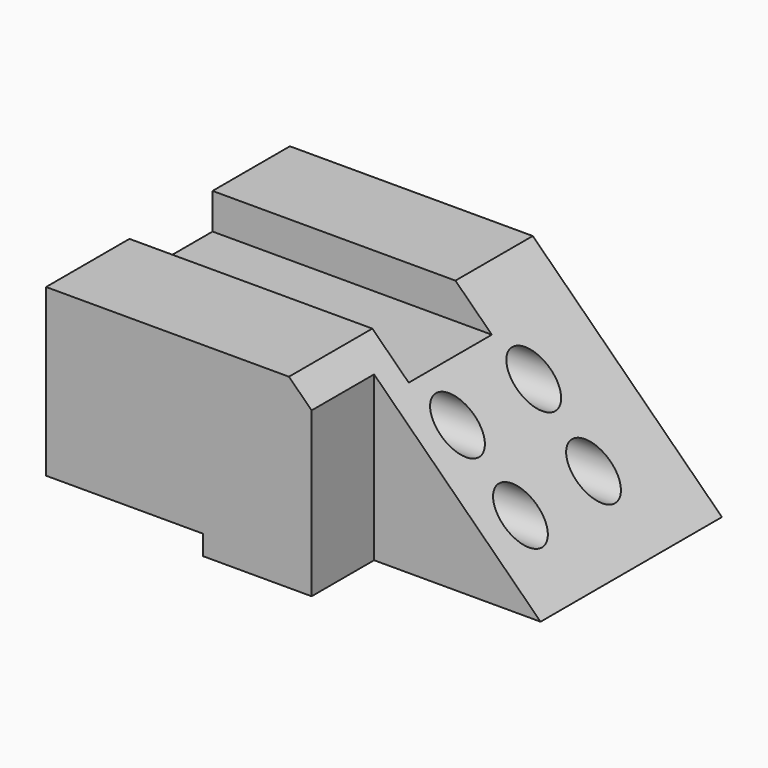
from build123d import *

# Parameters (mm, degrees)
F1_DEPTH = 109.474
F2_W     = 37.3121537268
F2_H     = 12.854102999
F2_R     = 7.6049065211
F3_DEPTH = 155.1973314414
F4_W     = 59.8052963614
F4_H     = 28.047692441
F5_DEPTH = 66.7983458767
F6_W     = 56.3981542364
F6_H     = 109.474
F7_DEPTH = 7.112


with BuildPart() as f1:
    # F0 (on Front) → F1 (new body)
    with BuildSketch(Plane.XZ):
        Polygon((-48.026971519, 66.7973458767), (-48.026971519, 0), (107.1693599224, 0), (39.2185337842, 66.7973458767), align=None)
    extrude(amount=F1_DEPTH)

    # F2 (on face) → F3 (cut, through all)
    with BuildSketch(Plane(origin=(-48.026971519, 0, 0), x_dir=(0, -1, 0), z_dir=(-1, 0, 0))):
        with Locations((53.3815380186, 60.3702943772)):
            Rectangle(F2_W, F2_H)
        with Locations((30.8165661991, 42.21656546)):
            Circle(F2_R)
        with Locations((31.5272733569, 20.5399803817)):
            Circle(F2_R)
        with Locations((64.8002144327, 20.1804041862)):
            Circle(F2_R)
        with Locations((65.5109215906, 41.8569892645)):
            Circle(F2_R)
    extrude(amount=-F3_DEPTH, mode=Mode.SUBTRACT)

    # F4 (on face) → F5 (cut, through all)
    with BuildSketch(Plane(origin=(0, 0, 0), x_dir=(1, 0, 0), z_dir=(0, 0, -1))):
        with Locations((77.2667117417, 95.4501537795)):
            Rectangle(F4_W, F4_H)
    extrude(amount=-F5_DEPTH, mode=Mode.SUBTRACT)

    # F6 (on face) → F7 (cut)
    with BuildSketch(Plane(origin=(0, 0, 0), x_dir=(1, 0, 0), z_dir=(0, 0, -1))):
        with Locations((-19.8278944008, 54.737)):
            Rectangle(F6_W, F6_H)
    extrude(amount=-F7_DEPTH, mode=Mode.SUBTRACT)


solid = f1.part
